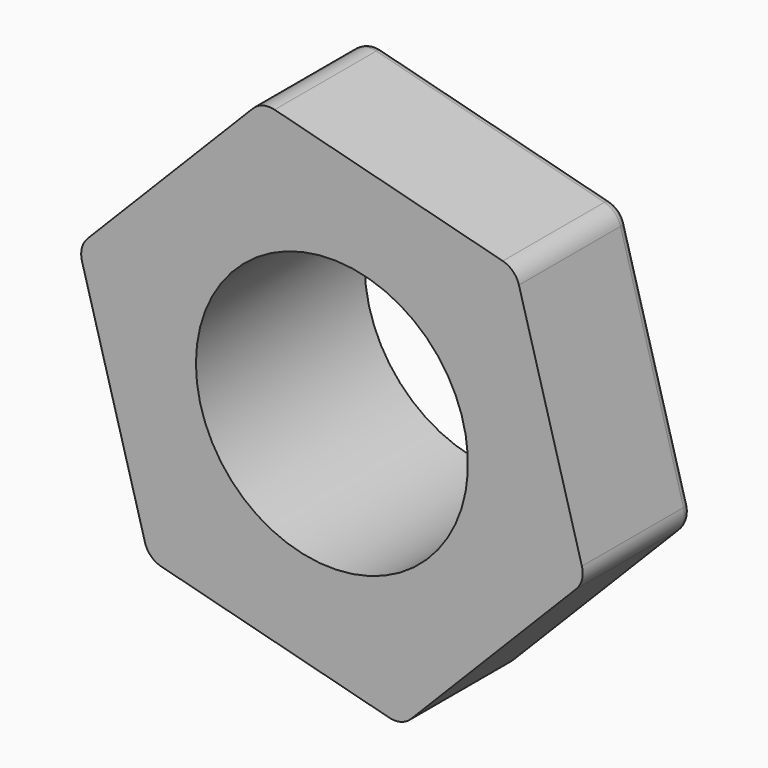
from build123d import *

# Parameters (mm, degrees)
F1_DEPTH = 3
F4_R     = 0.5
F6_R     = 0.1
F7_R     = 3
F8_DEPTH = 25
F9_R     = 0.5
F10_R    = 0.2


with BuildPart() as f1:
    # F0 (on Front) → F1 (new body)
    with BuildSketch(Plane.XZ):
        Polygon((1.542941519, -5.5635119126), (5.5896134101, -1.4455294043), (4.0466718911, 4.1179825084), (-1.542941519, 5.5635119126), (-5.5896134101, 1.4455294043), (-4.0466718911, -4.1179825084), align=None)
    extrude(amount=F1_DEPTH)


with BuildPart() as f3:
    # F2 (on Right) → F3 (revolve)
    with BuildSketch(Plane.YZ):
        with BuildLine():
            Line((1.653650824, 0), (1.653650824, 3.2440995908))
            ThreePointArc((1.653650824, 3.2440995908), (0.8126995328, 3.9784778483), (-0.1744808685, 4.5))
            Line((-0.1744808685, 4.5), (-0.1744808685, 0))
            Line((-0.1744808685, 0), (1.653650824, 0))
        make_face()
    revolve(axis=Axis((0, -1.6547753563, 0), (0, -1, 0)))

    # F4
    f4_edges = [f3.edges().sort_by_distance(p)[0] for p in [
        (0, 1.653651, -3.2441),
    ]]
    fillet(f4_edges, radius=F4_R)

    # F5: union F1
    add(f1.part)

    # F6
    f6_edges = [f3.edges().sort_by_distance(p)[0] for p in [
        (0, 0, -4.428349),
    ]]
    fillet(f6_edges, radius=F6_R)

    # F7 (on face) → F8 (cut)
    with BuildSketch(Plane(origin=(0, 1.653650824, 0), x_dir=(-1, 0, 0), z_dir=(0, 1, 0))):
        Circle(F7_R)
    extrude(amount=-F8_DEPTH, mode=Mode.SUBTRACT)

    # F9
    f9_edges = [f3.edges().sort_by_distance(p)[0] for p in [
        (-5.589613, -1.5, 1.445529),
        (-4.046672, -1.5, -4.117983),
        (1.542942, -1.5, -5.563512),
        (-1.542942, -1.5, 5.563512),
        (5.589613, -1.5, -1.445529),
        (4.046672, -1.5, 4.117983),
    ]]
    fillet(f9_edges, radius=F9_R)

    # F10
    f10_edges = [f3.edges().sort_by_distance(p)[0] for p in [
        (1.251865, 0, 4.840747),
        (4.818143, 0, 1.336227),
        (5.514727, 0, -1.426163),
        (3.992457, 0, 4.062812),
        (3.566277, 0, -3.504521),
        (1.52227, 0, -5.488975),
        (-1.251865, 0, -4.840747),
        (-3.992457, 0, -4.062812),
        (-4.818143, 0, -1.336227),
        (-5.514727, 0, 1.426163),
        (-3.566277, 0, 3.504521),
        (-1.52227, 0, 5.488975),
    ]]
    fillet(f10_edges, radius=F10_R)


solid = f3.part
